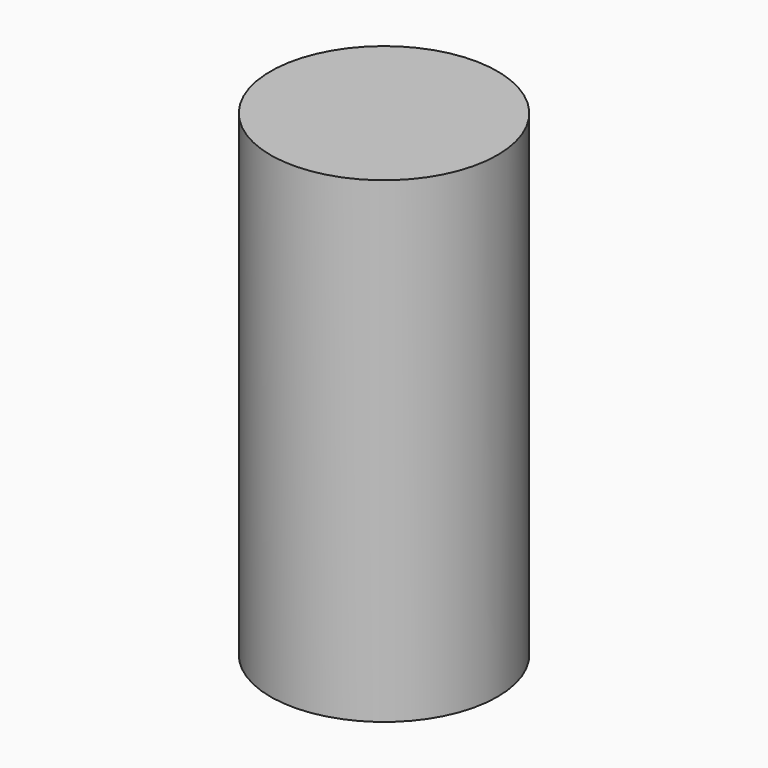
from build123d import *

# Parameters (mm, degrees)
CYLINDER_R     = 3.5687
CYLINDER_DEPTH = 15


with BuildPart() as part:
    # Cylinder → Cylinder (new body)
    with BuildSketch(Plane.XY.offset(-2.5)):
        Circle(CYLINDER_R)
    extrude(amount=CYLINDER_DEPTH)


solid = part.part
